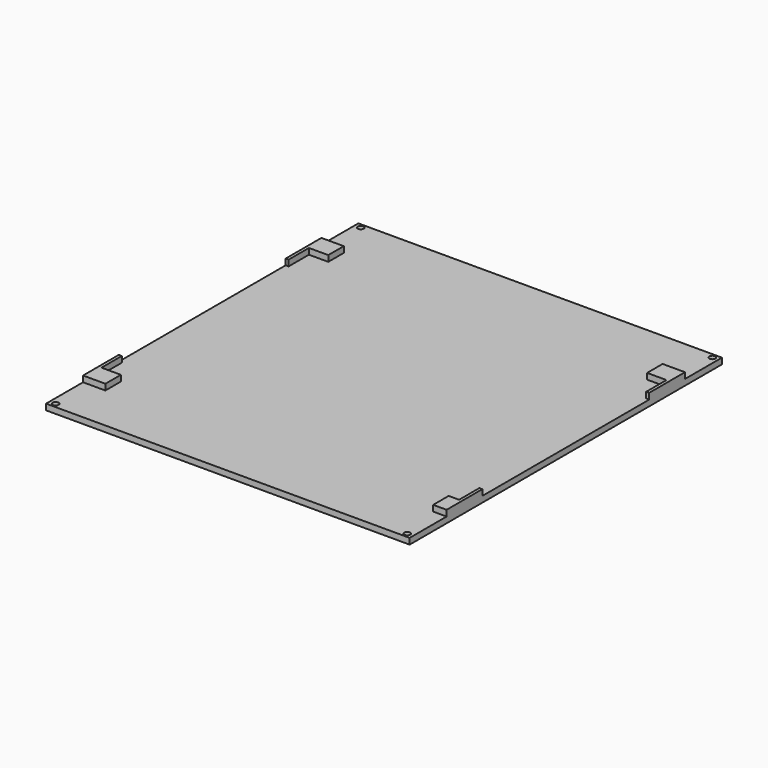
from build123d import *

# Parameters (mm, degrees)
F0_W     = 122
F0_H     = 131
F1_DEPTH = 2
F2_R     = 1
F3_DEPTH = 2.001
F5_W     = 122
F5_H     = 100
F5_W_2   = 120
F5_H_2   = 87
F6_DEPTH = 2
F7_W     = 107
F7_H     = 6.5
F7_W_2   = 1
F7_H_2   = 70
F7_W_3   = 110
F8_DEPTH = 2


with BuildPart() as f1:
    # F0 (on Top) → F1 (new body)
    with BuildSketch(Plane.XY):
        Rectangle(F0_W, F0_H)
    extrude(amount=F1_DEPTH)

    # F2 (on face) → F3 (cut, through all)
    with BuildSketch(Plane.XY.offset(2)):
        with Locations((59, 64)):
            Circle(F2_R)
        with Locations((59, -64)):
            Circle(F2_R)
        with Locations((-59, -64)):
            Circle(F2_R)
        with Locations((-59, 64)):
            Circle(F2_R)
    extrude(amount=-F3_DEPTH, mode=Mode.SUBTRACT)

    # F5 (on face) → F6 (join)
    with BuildSketch(Plane.XY.offset(2)):
        Rectangle(F5_W, F5_H)
        Rectangle(F5_W_2, F5_H_2, mode=Mode.SUBTRACT)
    extrude(amount=F6_DEPTH)

    # F7 (on face) → F8 (cut)
    with BuildSketch(Plane.XY.offset(4)):
        with Locations((0, 46.75)):
            Rectangle(F7_W, F7_H)
        with Locations((60.5, 0)):
            Rectangle(F7_W_2, F7_H_2)
        with Locations((1.5, -46.75)):
            Rectangle(F7_W_3, F7_H)
        with Locations((-60.5, 0)):
            Rectangle(F7_W_2, F7_H_2)
    extrude(amount=-F8_DEPTH, mode=Mode.SUBTRACT)


solid = f1.part
